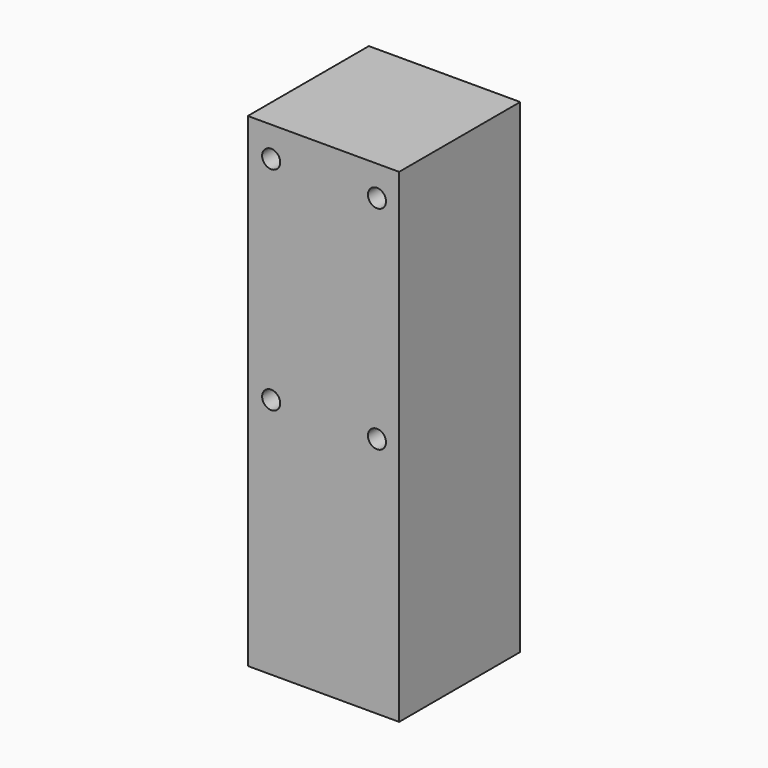
from build123d import *

# Parameters (mm, degrees)
F0_W     = 31.75
F0_H     = 101.6
F1_DEPTH = 31.75
F3_D     = 3.7973
F3_DEPTH = 15.494
F3_TIP   = 1.1408240143


with BuildPart() as f1:
    # F0 (on Front) → F1 (new body)
    with BuildSketch(Plane.XZ):
        Rectangle(F0_W, F0_H)
    extrude(amount=F1_DEPTH)

    # F3
    with Locations(Plane.XZ.offset(31.75)):
        with Locations((-10.9728, 44.45), (11.2268, 44.45), (-10.9728, -0.0508), (11.2268, -0.0508)):
            Hole(F3_D / 2, depth=F3_DEPTH)
            with Locations((0, 0, -(F3_DEPTH + F3_TIP / 2))):  # 118° drill point
                Cone(0, F3_D / 2, F3_TIP, mode=Mode.SUBTRACT)


solid = f1.part
